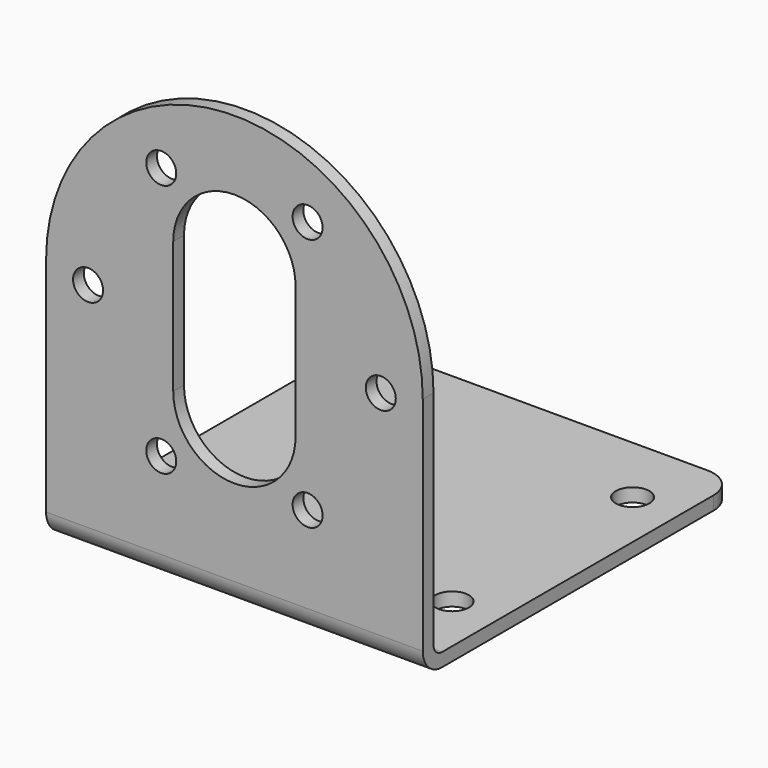
from build123d import *

# Parameters (mm, degrees)
F1_DEPTH = 1270
F2_R     = 1.5875
F3_DEPTH = 1270
F4_R     = 1.778
F5_DEPTH = 1270


with BuildPart() as f1:
    # F0 (on Right) → F1 (new body, symmetric)
    with BuildSketch(Plane.YZ):
        with BuildLine():
            Line((1.4224, 45.974), (0, 45.974))
            Line((0, 45.974), (0, 2.54))
            ThreePointArc((0, 2.54), (0.743949, 0.743949), (2.54, 0))
            Line((2.54, 0), (41.656, 0))
            Line((41.656, 0), (41.656, 1.4224))
            Line((41.656, 1.4224), (2.54, 1.4224))
            ThreePointArc((2.54, 1.4224), (1.749737, 1.749737), (1.4224, 2.54))
            Line((1.4224, 2.54), (1.4224, 45.974))
        make_face()
    extrude(amount=F1_DEPTH, both=True)

    # F2 (on Front) → F3 (intersect, symmetric)
    with BuildSketch(Plane.XZ):
        with BuildLine():
            ThreePointArc((19.939, 26.035), (0, 45.974), (-19.939, 26.035))
            Line((-19.939, 26.035), (-19.939, 0))
            Line((-19.939, 0), (19.939, 0))
            Line((19.939, 0), (19.939, 26.035))
        make_face()
        with Locations((-7.747, 11.727802)):
            Circle(F2_R, mode=Mode.SUBTRACT)
        with Locations((7.747, 11.727802)):
            Circle(F2_R, mode=Mode.SUBTRACT)
        with Locations((-15.494, 25.146)):
            Circle(F2_R, mode=Mode.SUBTRACT)
        with Locations((-7.747, 38.564198)):
            Circle(F2_R, mode=Mode.SUBTRACT)
        with BuildLine():
            Line((-6.477, 18.161), (-6.477, 32.131))
            ThreePointArc((-6.477, 32.131), (0, 38.608), (6.477, 32.131))
            Line((6.477, 32.131), (6.477, 18.161))
            ThreePointArc((6.477, 18.161), (0, 11.684), (-6.477, 18.161))
        make_face(mode=Mode.SUBTRACT)
        with Locations((15.494, 25.146)):
            Circle(F2_R, mode=Mode.SUBTRACT)
        with Locations((7.747, 38.564198)):
            Circle(F2_R, mode=Mode.SUBTRACT)
    extrude(amount=F3_DEPTH, both=True, mode=Mode.INTERSECT)

    # F4 (on Top) → F5 (intersect, symmetric)
    with BuildSketch(Plane.XY):
        with BuildLine():
            Line((-19.939, 38.481), (-19.939, 0))
            Line((-19.939, 0), (19.939, 0))
            Line((19.939, 0), (19.939, 38.481))
            ThreePointArc((19.939, 38.481), (19.009064, 40.726064), (16.764, 41.656))
            Line((16.764, 41.656), (-16.764, 41.656))
            ThreePointArc((-16.764, 41.656), (-19.009064, 40.726064), (-19.939, 38.481))
        make_face()
        with Locations((-14.9225, 10.16)):
            Circle(F4_R, mode=Mode.SUBTRACT)
        with Locations((14.9225, 10.16)):
            Circle(F4_R, mode=Mode.SUBTRACT)
        with Locations((-14.9225, 34.036)):
            Circle(F4_R, mode=Mode.SUBTRACT)
        with Locations((14.9225, 34.036)):
            Circle(F4_R, mode=Mode.SUBTRACT)
    extrude(amount=F5_DEPTH, both=True, mode=Mode.INTERSECT)


solid = f1.part
